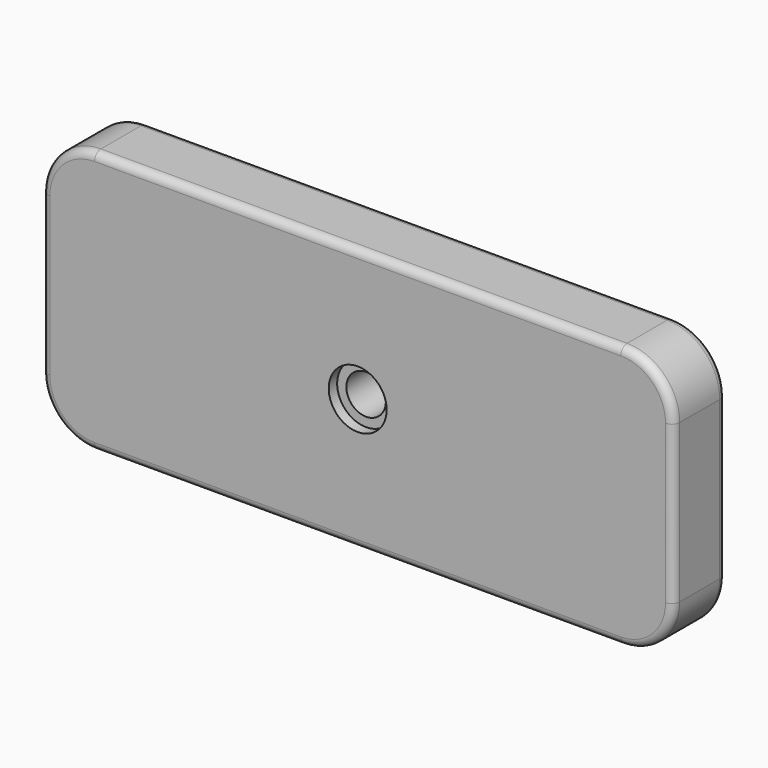
from build123d import *

# Parameters (mm, degrees)
F0_R     = 7.5
F1_DEPTH = 25
F2_R     = 3
F3_R     = 11
F4_DEPTH = 4


with BuildPart() as f1:
    # F0 (on Front) → F1 (new body)
    with BuildSketch(Plane.XZ):
        with BuildLine():
            Line((100, 50), (-100, 50))
            ThreePointArc((-100, 50), (-114.142136, 44.142136), (-120, 30))
            Line((-120, 30), (-120, -30))
            ThreePointArc((-120, -30), (-114.142136, -44.142136), (-100, -50))
            Line((-100, -50), (100, -50))
            ThreePointArc((100, -50), (114.142136, -44.142136), (120, -30))
            Line((120, -30), (120, 30))
            ThreePointArc((120, 30), (114.142136, 44.142136), (100, 50))
        make_face()
        Circle(F0_R, mode=Mode.SUBTRACT)
    extrude(amount=F1_DEPTH)

    # F2
    f2_edges = [f1.edges().sort_by_distance(p)[0] for p in [
        (0, -25, 50),
        (0, 0, 50),
        (-114.142136, 0, 44.142136),
        (-120, 0, 0),
        (-114.142136, 0, -44.142136),
        (0, 0, -50),
        (114.142136, 0, -44.142136),
        (120, 0, 0),
        (114.142136, 0, 44.142136),
        (-7.5, 0, 0),
    ]]
    fillet(f2_edges, radius=F2_R)

    # F3 (on face) → F4 (cut)
    with BuildSketch(Plane.XZ.offset(25)):
        Circle(F3_R)
    extrude(amount=-F4_DEPTH, mode=Mode.SUBTRACT)


solid = f1.part
